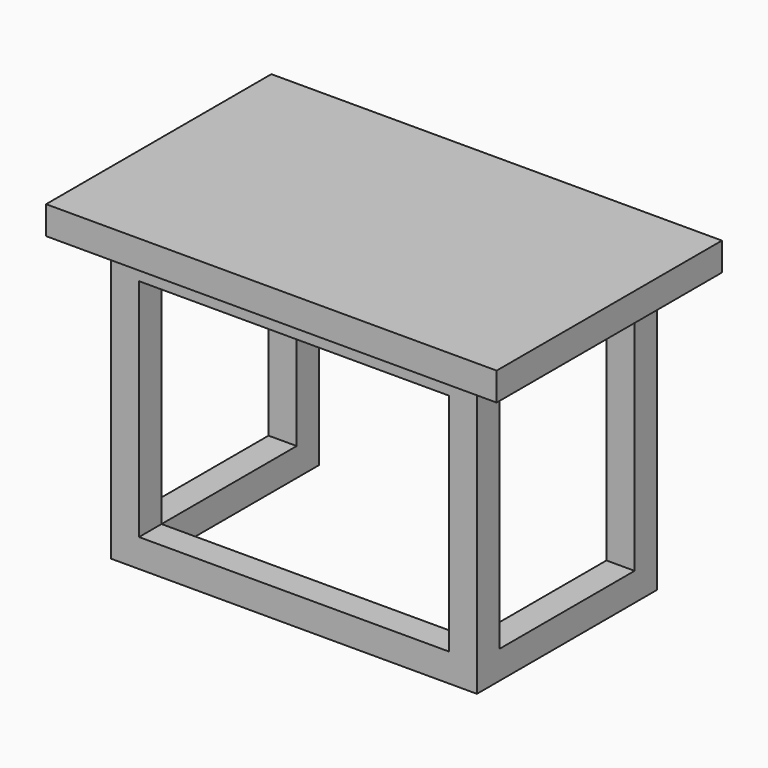
from build123d import *

# Parameters (mm, degrees)
F1_DEPTH  = 50.8
F2_W      = 6.35
F2_H      = 6.35
F3_DEPTH  = 50.8
F4_W      = 6.35
F4_H      = 6.35
F5_DEPTH  = 50.8
F6_W      = 6.35
F6_H      = 6.35
F7_DEPTH  = 34.925
F9_W      = 101.6
F9_H      = 63.5
F10_DEPTH = 6.35


with BuildPart() as f1:
    # F0 (on Front) → F1 (new body)
    with BuildSketch(Plane.XZ):
        Polygon((-41.275, -3.175), (-34.925, -3.175), (-34.925, 0), (-34.925, 3.175), (-41.275, 3.175), align=None)
    extrude(amount=F1_DEPTH)

    # F2 (on face) → F3 (join)
    with BuildSketch(Plane.XY.offset(3.175)):
        with Locations((-38.1, -3.175)):
            Rectangle(F2_W, F2_H)
        with Locations((-38.1, -47.625)):
            Rectangle(F2_W, F2_H)
    extrude(amount=F3_DEPTH)

    # F4 (on face) → F5 (join)
    with BuildSketch(Plane.XZ.offset(50.8)):
        with Locations((-38.1, 57.15)):
            Rectangle(F4_W, F4_H)
    extrude(amount=-F5_DEPTH)

    # F6 (on face) → F7 (join)
    with BuildSketch(Plane.YZ.offset(-34.925)):
        with Locations((-47.625, 57.15)):
            Rectangle(F6_W, F6_H)
        with Locations((-3.175, 57.15)):
            Rectangle(F6_W, F6_H)
        with Locations((-47.625, 0)):
            Rectangle(F6_W, F6_H)
    extrude(amount=F7_DEPTH)

    # F8: F1 across plane


with BuildPart() as f1_1:
    add(f1.part)
    add(f1.part.mirror(Plane.YZ))

    # F9 (on face) → F10 (join)
    with BuildSketch(Plane.XY.offset(60.325)):
        with Locations((0, -25.4)):
            Rectangle(F9_W, F9_H)
    extrude(amount=F10_DEPTH)


solid = f1_1.part
